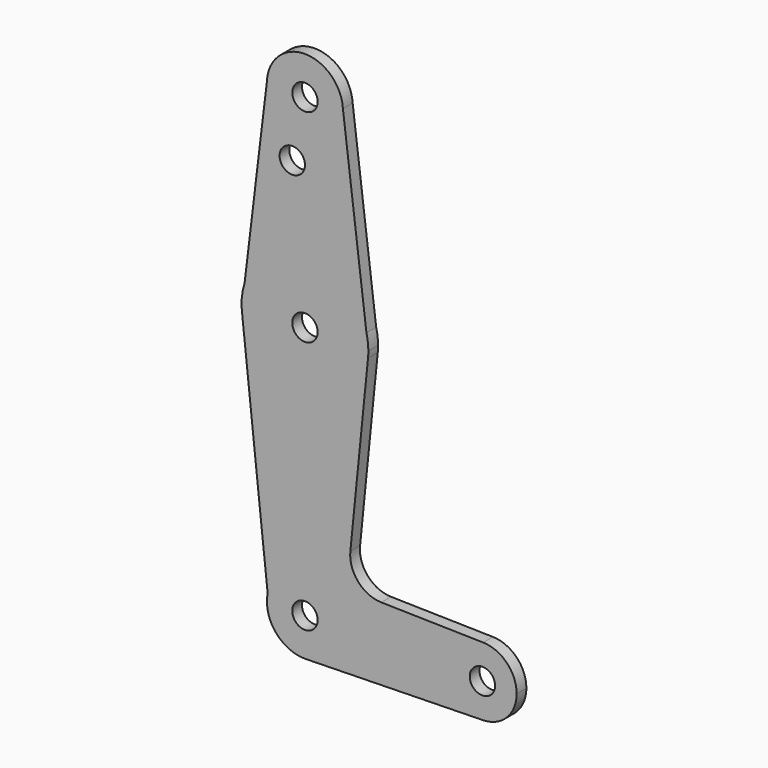
from build123d import *

# Parameters (mm, degrees)
F0_R     = 3.175
F1_DEPTH = 3.048


with BuildPart() as f1:
    # F0 (on Front) → F1 (new body)
    with BuildSketch(Plane.XZ):
        with BuildLine():
            ThreePointArc((0.4071881398, -9.5162924933), (6.8776482911, -6.5896569701), (9.525, 0))
            ThreePointArc((9.525, 0), (0.9261811167, 9.4798635823), (-9.344882108, 1.843584386))
            Line((-9.344882108, 1.843584386), (-8.7424692237, -3.7808539872))
            ThreePointArc((-8.7424692237, -3.7808539872), (-5.2303437159, -7.9604729516), (0, -9.525))
            Line((0, -9.525), (0.4071881398, -9.5162924933))
        make_face()
        Circle(F0_R, mode=Mode.SUBTRACT)
        with BuildLine():
            ThreePointArc((-9.344882108, 1.843584386), (0.9261811167, 9.4798635823), (9.525, 0))
            Line((9.525, 0), (35.8775, 0))
            ThreePointArc((35.8775, 0), (38.453475257, 6.1261282435), (44.6332765544, 8.5705405871))
            Line((44.6332765544, 8.5705405871), (19.1083378021, 9.1163781311))
            ThreePointArc((19.1083378021, 9.1163781311), (13.3256070264, 11.7949403436), (11.3679607138, 17.859780957))
            Line((11.3679607138, 17.859780957), (15.7954255641, 61.9125))
            ThreePointArc((15.7954255641, 61.9125), (0.4194554778, 47.6305424761), (-15.6895088319, 61.0803021646))
            Line((-15.6895088319, 61.0803021646), (-9.344882108, 1.843584386))
        make_face()
        with BuildLine():
            Line((35.8775, 0), (9.525, 0))
            ThreePointArc((9.525, 0), (6.8776482911, -6.5896569701), (0.4071881398, -9.5162924933))
            Line((0.4071881398, -9.5162924933), (44.6332765544, -8.5705405871))
            ThreePointArc((44.6332765544, -8.5705405871), (38.453475257, -6.1261282435), (35.8775, 0))
        make_face()
        with BuildLine():
            ThreePointArc((44.6332765544, 8.5705405871), (38.453475257, 6.1261282435), (35.8775, 0))
            ThreePointArc((35.8775, 0), (38.453475257, -6.1261282435), (44.6332765544, -8.5705405871))
            ThreePointArc((44.6332765544, -8.5705405871), (50.5761282435, -5.996524743), (53.0225, 0))
            ThreePointArc((53.0225, 0), (50.5761282435, 5.996524743), (44.6332765544, 8.5705405871))
        make_face()
        with BuildLine():
            ThreePointArc((47.625, 0), (44.45, -3.175), (41.275, 0))
            ThreePointArc((41.275, 0), (44.45, 3.175), (47.625, 0))
        make_face(mode=Mode.SUBTRACT)
        with BuildLine():
            Line((-8.7424692237, -3.7808539872), (-9.344882108, 1.843584386))
            ThreePointArc((-9.344882108, 1.843584386), (-9.4708313417, -1.0143858722), (-8.7424692237, -3.7808539872))
        make_face()
        with BuildLine():
            ThreePointArc((0, -9.525), (0.203640616, -9.5228228745), (0.4071881398, -9.5162924933))
            Line((0.4071881398, -9.5162924933), (0, -9.525))
        make_face()
        with BuildLine():
            ThreePointArc((-15.1257878434, 68.3193533919), (-15.8270841586, 64.7324901767), (-15.6895088319, 61.0803021646))
            ThreePointArc((-15.6895088319, 61.0803021646), (0.4194554778, 47.6305424761), (15.7954255641, 61.9125))
            ThreePointArc((15.7954255641, 61.9125), (15.8550939106, 62.7052534459), (15.875, 63.5))
            ThreePointArc((15.875, 63.5), (15.7551635727, 65.4469067252), (15.3974635217, 67.3644200209))
            ThreePointArc((15.3974635217, 67.3644200209), (0.4964134912, 79.3672366418), (-15.1257878434, 68.3193533919))
        make_face()
        with Locations((0, 63.5)):
            Circle(F0_R, mode=Mode.SUBTRACT)
        with BuildLine():
            Line((-9.5133393241, 114.7711686588), (-15.1257878434, 68.3193533919))
            ThreePointArc((-15.1257878434, 68.3193533919), (0.4964134912, 79.3672366418), (15.3974635217, 67.3644200209))
            Line((15.3974635217, 67.3644200209), (9.5090800261, 114.8504743934))
            ThreePointArc((9.5090800261, 114.8504743934), (9.5210191747, 114.5753522759), (9.525, 114.3))
            ThreePointArc((9.525, 114.3), (-0.2356564642, 104.7779156152), (-9.5133393241, 114.7711686588))
        make_face()
        with Locations((-3.175, 99.3231758475)):
            Circle(F0_R, mode=Mode.SUBTRACT)
        with BuildLine():
            Line((-9.3517982788, 116.1081742042), (-9.5133393241, 114.7711686588))
            ThreePointArc((-9.5133393241, 114.7711686588), (-0.2356564642, 104.7779156152), (9.525, 114.3))
            ThreePointArc((9.525, 114.3), (9.5210191747, 114.5753522759), (9.5090800261, 114.8504743934))
            ThreePointArc((9.5090800261, 114.8504743934), (0.6337480498, 123.803893329), (-9.3517982788, 116.1081742042))
        make_face()
        with Locations((0, 114.3)):
            Circle(F0_R, mode=Mode.SUBTRACT)
        with BuildLine():
            ThreePointArc((-9.3517982788, 116.1081742042), (-9.4562281144, 115.4425300211), (-9.5133393241, 114.7711686588))
            Line((-9.5133393241, 114.7711686588), (-9.3517982788, 116.1081742042))
        make_face()
    extrude(amount=F1_DEPTH)


solid = f1.part
